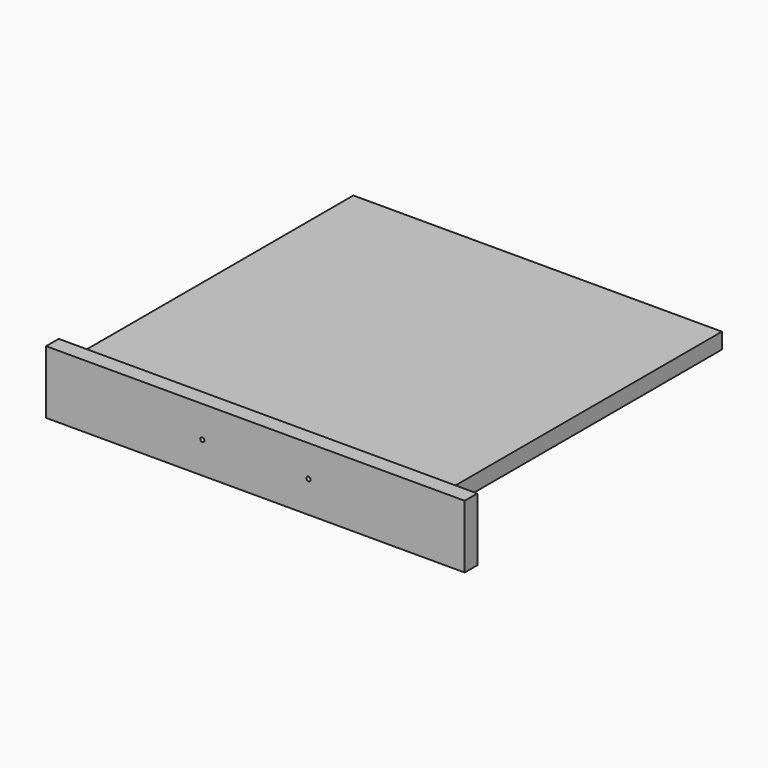
from build123d import *

# Parameters (mm, degrees)
F0_W     = 504.825
F0_H     = 76.2
F1_DEPTH = 19.05
F3_D     = 5.0038
F3_DEPTH = 25.4
F5_DEPTH = 406.4


with BuildPart() as f1:
    # F0 (on Front) → F1 (new body)
    with BuildSketch(Plane.XZ):
        Rectangle(F0_W, F0_H)
    extrude(amount=F1_DEPTH)

    # F3
    with Locations(Plane.XZ.offset(19.05)):
        with Locations((-64.008, 0), (64.008, 0)):
            Hole(F3_D / 2, depth=F3_DEPTH)

    # F4 (on face) → F5 (join)
    with BuildSketch(Plane(origin=(0, 0, 0), x_dir=(-1, 0, 0), z_dir=(0, 1, 0))):
        Polygon((222.25, 34.925), (0, 34.925), (-222.25, 34.925), (-222.25, 15.875), (222.25, 15.875), align=None)
    extrude(amount=F5_DEPTH)


solid = f1.part
